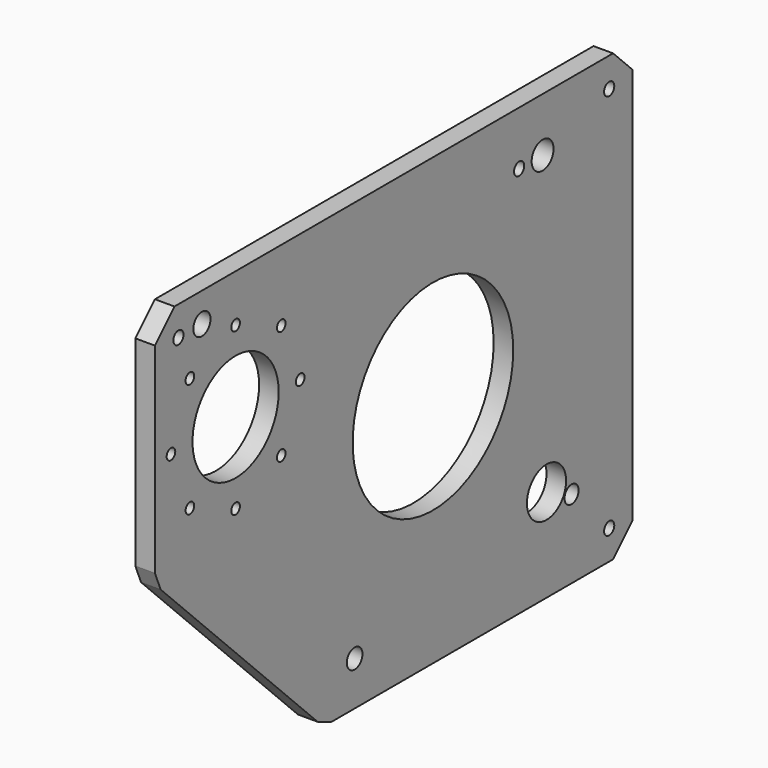
from build123d import *

# Parameters (mm, degrees)
F0_R     = 10
F0_R_2   = 6.5
F0_R_3   = 9
F0_R_4   = 25
F0_R_5   = 5.5
F0_R_6   = 55
F0_R_7   = 11
F0_R_8   = 102.5
F0_R_9   = 14
F1_DEPTH = 20


with BuildPart() as f1:
    # F0 (on Right) → F1 (new body)
    with BuildSketch(Plane.YZ):
        Polygon((255.000028, -215.000014), (255.000028, 189.999986), (230.000028, 214.999986), (-329.999972, 214.999986), (-354.999972, 189.999986), (-354.999972, -14.644675), (-347.677642, -32.322345), (-147.322303, -232.677684), (-129.644633, -240.000014), (230.000028, -240.000014), align=None)
        with Locations((-99.999965, -195.000014)):
            Circle(F0_R, mode=Mode.SUBTRACT)
        with Locations((225.000024, -210.000012)):
            Circle(F0_R_2, mode=Mode.SUBTRACT)
        with Locations((177.000028, -160.000014)):
            Circle(F0_R_3, mode=Mode.SUBTRACT)
        with Locations((145.000028, -145.000014)):
            Circle(F0_R_4, mode=Mode.SUBTRACT)
        with Locations((-310.336281, 25.663677)):
            Circle(F0_R_5, mode=Mode.SUBTRACT)
        with Locations((-251.999972, 1.499986)):
            Circle(F0_R_5, mode=Mode.SUBTRACT)
        with Locations((-334.499972, 83.999986)):
            Circle(F0_R_5, mode=Mode.SUBTRACT)
        with Locations((-251.999972, 83.999986)):
            Circle(F0_R_6, mode=Mode.SUBTRACT)
        with Locations((-193.663662, 25.663677)):
            Circle(F0_R_5, mode=Mode.SUBTRACT)
        with Locations((-169.499972, 83.999986)):
            Circle(F0_R_5, mode=Mode.SUBTRACT)
        with Locations((-310.336281, 142.336296)):
            Circle(F0_R_5, mode=Mode.SUBTRACT)
        with Locations((-324.999969, 184.999984)):
            Circle(F0_R_2, mode=Mode.SUBTRACT)
        with Locations((-294.999969, 184.999984)):
            Circle(F0_R_7, mode=Mode.SUBTRACT)
        with Locations((-251.999972, 166.499986)):
            Circle(F0_R_5, mode=Mode.SUBTRACT)
        with Locations((-193.663662, 142.336296)):
            Circle(F0_R_5, mode=Mode.SUBTRACT)
        with Locations((2.8e-05, -1.4e-05)):
            Circle(F0_R_8, mode=Mode.SUBTRACT)
        with Locations((110.000028, 159.999986)):
            Circle(F0_R_2, mode=Mode.SUBTRACT)
        with Locations((140.000028, 159.999986)):
            Circle(F0_R_9, mode=Mode.SUBTRACT)
        with Locations((225.000024, 184.999984)):
            Circle(F0_R_2, mode=Mode.SUBTRACT)
    extrude(amount=F1_DEPTH)


solid = f1.part
